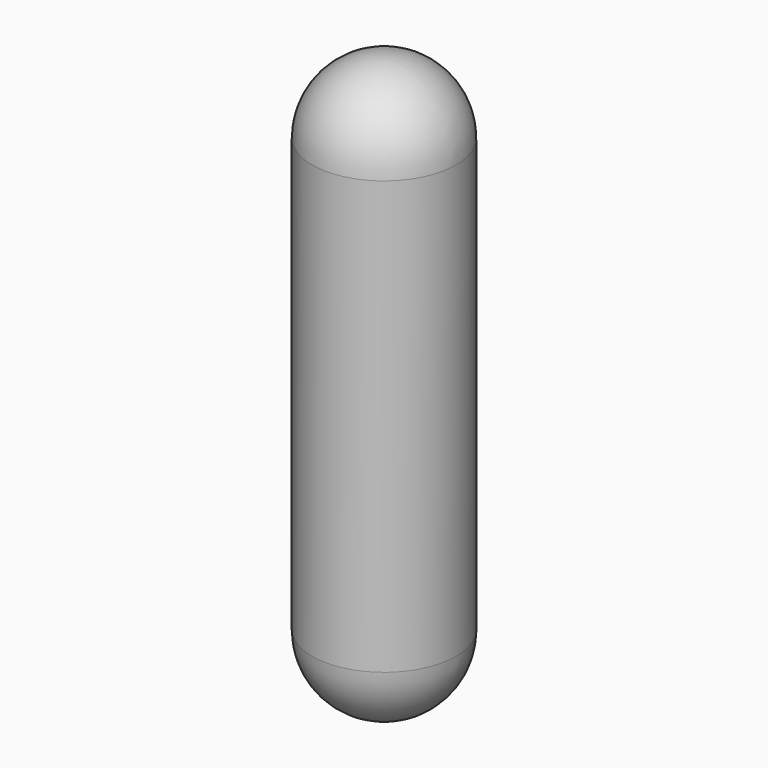
from build123d import *

# Parameters (mm, degrees)
F0_R     = 12.5
F1_DEPTH = 50
F2_R     = 12.5


with BuildPart() as f1:
    # F0 (on Top) → F1 (new body)
    with BuildSketch(Plane.XY):
        Circle(F0_R)
    extrude(amount=F1_DEPTH)

    # F2
    f2_edges = [f1.edges().sort_by_distance(p)[0] for p in [
        (-12.5, 0, 50),
    ]]
    fillet(f2_edges, radius=F2_R)

    # F3: F1 across plane


with BuildPart() as f1_1:
    add(f1.part)
    add(f1.part.mirror(Plane.XY))


solid = f1_1.part
